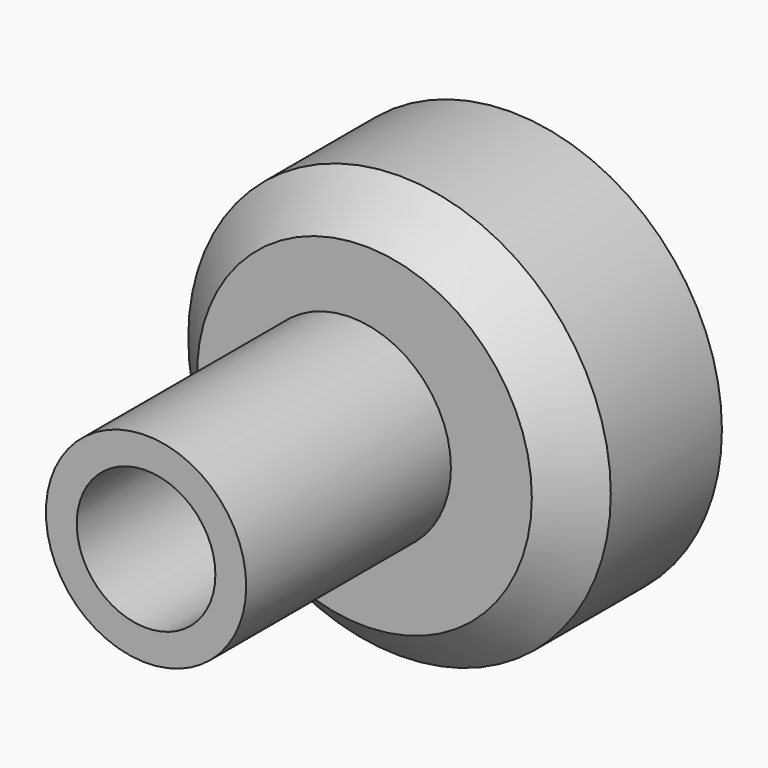
from build123d import *

# Parameters (mm, degrees)
F0_R     = 73.396839
F1_DEPTH = 63.5
F2_SIZE  = 15.24
F3_R     = 34.79629
F4_DEPTH = 88.9
F5_R     = 24.08748
F6_DEPTH = 263.398


with BuildPart() as f1:
    # F0 (on Front) → F1 (new body)
    with BuildSketch(Plane.XZ):
        Circle(F0_R)
    extrude(amount=F1_DEPTH)

    # F2
    f2_edges = [f1.edges().sort_by_distance(p)[0] for p in [
        (-73.396839, -63.5, 0),
    ]]
    chamfer(f2_edges, length=F2_SIZE)

    # F3 (on face) → F4 (join)
    with BuildSketch(Plane.XZ.offset(63.5)):
        with Locations((-4.750563, 0)):
            Circle(F3_R)
    extrude(amount=F4_DEPTH)

    # F5 (on face) → F6 (cut)
    with BuildSketch(Plane.XZ.offset(152.4)):
        with Locations((-4.750563, 0)):
            Circle(F5_R)
    extrude(amount=-F6_DEPTH, mode=Mode.SUBTRACT)


solid = f1.part
